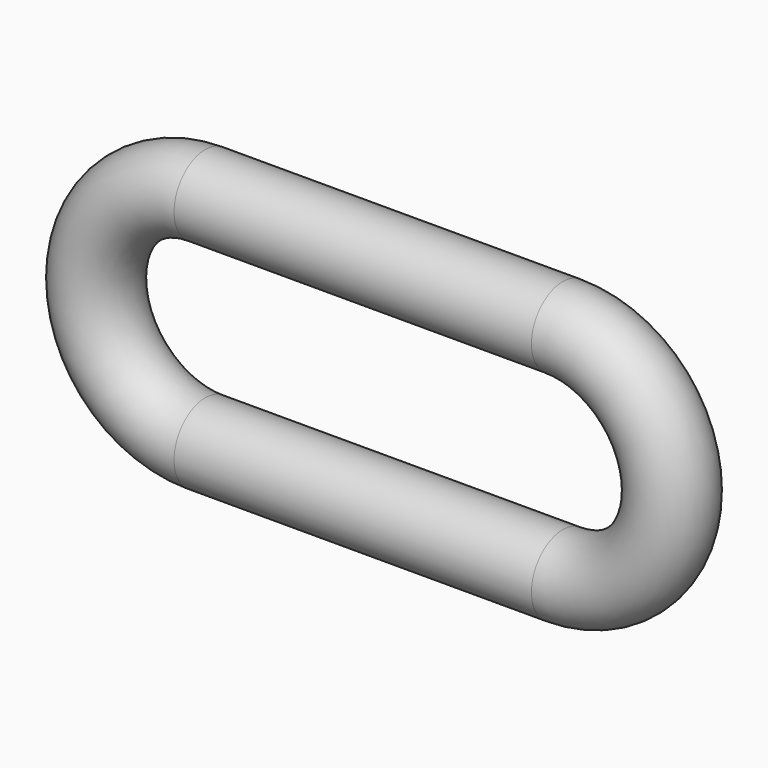
from build123d import *

# Parameters (mm, degrees)
F1_R = 25


with BuildPart() as f2:
    # F2: sweep along a path in F0
    with BuildLine(Plane.XZ) as f2_path:
        Line((0, 0), (-114.3, 0))
        ThreePointArc((-114.3, 0), (-184.15, 69.85), (-114.3, 139.7))
        Line((-114.3, 139.7), (114.3, 139.7))
        ThreePointArc((114.3, 139.7), (184.15, 69.85), (114.3, 0))
        Line((114.3, 0), (0, 0))
    # F1 (on Right) → F2 (sweep)
    with BuildSketch(Plane.YZ):
        Circle(F1_R)
    sweep(path=f2_path.line)


solid = f2.part
